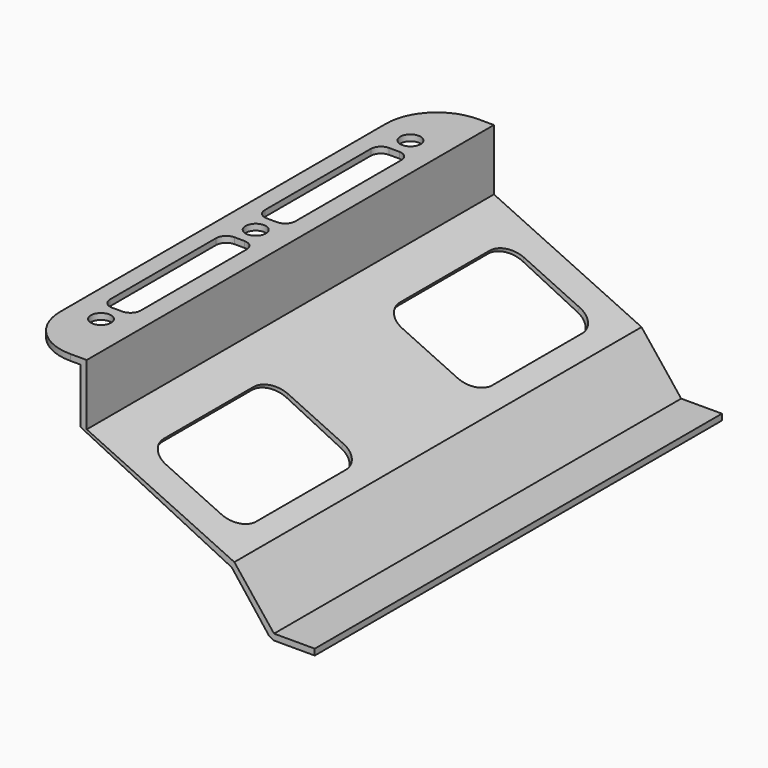
from build123d import *

# Parameters (mm, degrees)
F1_DEPTH  = 250
F2_R      = 5
F3_DEPTH  = 25
F5_DEPTH  = 25
F7_DEPTH  = 25
F10_DEPTH = 100


with BuildPart() as f1:
    # F0 (on Front) → F1 (new body)
    with BuildSketch(Plane.XZ):
        Polygon((-47.1529836208, 41.1845914816), (-77.1529836208, 41.1845914816), (-77.1529836208, 38.1845914816), (-47.1529836208, 38.1845914816), (-47.1529836208, 11.1845914816), (27.0837845569, -25.3437928188), (45.465561148, -49.0526580248), (47.8364476686, -50.2144803657), (67.8364476686, -50.2144803657), (67.8364476686, -47.2144803657), (47.8364476686, -47.2144803657), (28.3516393422, -22.6248694577), (-44.1529836208, 11.1845914816), (-44.1529836208, 41.1845914816), align=None)
    extrude(amount=F1_DEPTH)

    # F2 (on face) → F3 (cut)
    with BuildSketch(Plane.XY.offset(41.1845914816)):
        with Locations((-61.1529836208, -30)):
            Circle(F2_R)
        with Locations((-61.1529836208, -125)):
            Circle(F2_R)
        with Locations((-61.1529836208, -220)):
            Circle(F2_R)
    extrude(amount=-F3_DEPTH, mode=Mode.SUBTRACT)

    # F4 (on face) → F5 (cut)
    with BuildSketch(Plane.XY.offset(41.1845914816)):
        with BuildLine():
            ThreePointArc((-77.1529836208, -25), (-69.8306531504, -7.3223304703), (-52.1529836208, 0))
            Line((-52.1529836208, 0), (-77.1529836208, 0))
            Line((-77.1529836208, 0), (-77.1529836208, -25))
        make_face()
        with BuildLine():
            Line((-77.1529836208, -250), (-52.1529836208, -250))
            ThreePointArc((-52.1529836208, -250), (-69.8306531504, -242.6776695297), (-77.1529836208, -225))
            Line((-77.1529836208, -225), (-77.1529836208, -250))
        make_face()
    extrude(amount=-F5_DEPTH, mode=Mode.SUBTRACT)

    # F6 (on face) → F7 (cut)
    with BuildSketch(Plane.XY.offset(41.1845914816)):
        with BuildLine():
            Line((-58.6529836208, -40), (-63.6529836208, -40))
            ThreePointArc((-63.6529836208, -40), (-67.1885175267, -41.4644660941), (-68.6529836208, -45))
            Line((-68.6529836208, -45), (-68.6529836208, -110))
            ThreePointArc((-68.6529836208, -110), (-67.1885175267, -113.5355339059), (-63.6529836208, -115))
            Line((-63.6529836208, -115), (-58.6529836208, -115))
            ThreePointArc((-58.6529836208, -115), (-55.1174497148, -113.5355339059), (-53.6529836208, -110))
            Line((-53.6529836208, -110), (-53.6529836208, -45))
            ThreePointArc((-53.6529836208, -45), (-55.1174497148, -41.4644660941), (-58.6529836208, -40))
        make_face()
        with BuildLine():
            Line((-58.6529836208, -135), (-63.6529836208, -135))
            ThreePointArc((-63.6529836208, -135), (-67.1885175267, -136.4644660941), (-68.6529836208, -140))
            Line((-68.6529836208, -140), (-68.6529836208, -205))
            ThreePointArc((-68.6529836208, -205), (-67.1885175267, -208.5355339059), (-63.6529836208, -210))
            Line((-63.6529836208, -210), (-58.6529836208, -210))
            ThreePointArc((-58.6529836208, -210), (-55.1174497148, -208.5355339059), (-53.6529836208, -205))
            Line((-53.6529836208, -205), (-53.6529836208, -140))
            ThreePointArc((-53.6529836208, -140), (-55.1174497148, -136.4644660941), (-58.6529836208, -135))
        make_face()
    extrude(amount=-F7_DEPTH, mode=Mode.SUBTRACT)

    # F9 (on offset) → F10 (cut)
    with BuildSketch(Plane(origin=(6.9634072107, 0, 14.9330749537), x_dir=(0.906307787, 0, -0.4226182617), z_dir=(0.4226182617, 0, 0.906307787))):
        with BuildLine():
            Line((15, -15), (-15, -15))
            ThreePointArc((-15, -15), (-22.0710678119, -17.9289321881), (-25, -25))
            Line((-25, -25), (-25, -80))
            ThreePointArc((-25, -80), (-22.0710678119, -87.0710678119), (-15, -90))
            Line((-15, -90), (15, -90))
            ThreePointArc((15, -90), (22.0710678119, -87.0710678119), (25, -80))
            Line((25, -80), (25, -25))
            ThreePointArc((25, -25), (22.0710678119, -17.9289321881), (15, -15))
        make_face()
        with BuildLine():
            Line((15, -160), (-15, -160))
            ThreePointArc((-15, -160), (-22.0710678119, -162.9289321881), (-25, -170))
            Line((-25, -170), (-25, -225))
            ThreePointArc((-25, -225), (-22.0710678119, -232.0710678119), (-15, -235))
            Line((-15, -235), (15, -235))
            ThreePointArc((15, -235), (22.0710678119, -232.0710678119), (25, -225))
            Line((25, -225), (25, -170))
            ThreePointArc((25, -170), (22.0710678119, -162.9289321881), (15, -160))
        make_face()
    extrude(amount=-F10_DEPTH, mode=Mode.SUBTRACT)


solid = f1.part
